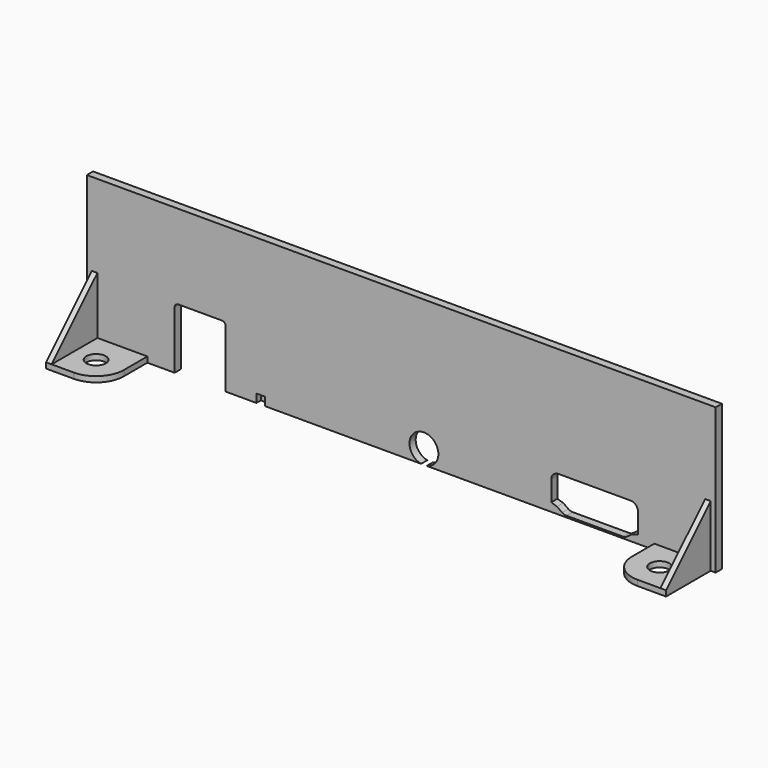
from build123d import *

# Parameters (mm, degrees)
PAD028_DEPTH    = 1.4
SKETCH048_R     = 1.75
PAD029_DEPTH    = 1
PAD030_DEPTH    = 1
PAD031_DEPTH    = 1
SKETCH181_W     = 1.5
SKETCH181_H     = 1.5
POCKET062_DEPTH = 1


with BuildPart() as part:
    # Sketch047 (on Face725 of Binder021) → Pad028 (new body)
    with BuildSketch(Plane(origin=(0, 135.8, 0), x_dir=(-1, 0, 0), z_dir=(0, 1, 0))):
        with BuildLine():
            Line((-120.499982, -0.1), (-120.499982, -26.3))
            Line((-120.499982, -26.3), (-68.48194, -26.3))
            ThreePointArc((-67.46705, -26.3), (-67.974495, -21.15), (-68.48194, -26.3))
            Line((-67.46705, -26.3), (-32.299995, -26.3))
            Line((-32.299995, -15.934266), (-32.299995, -26.3))
            ThreePointArc((-31.615729, -15.25), (-32.099578, -15.450417), (-32.299995, -15.934266))
            Line((-31.615729, -15.25), (-23.784261, -15.25))
            ThreePointArc((-23.099995, -15.934266), (-23.300412, -15.450417), (-23.784261, -15.25))
            Line((-23.099995, -15.934266), (-23.099995, -26.3))
            Line((-7.299995, -26.3), (-23.099995, -26.3))
            Line((-7.299995, -26.3), (-7.299995, -0.1))
            Line((-7.299995, -0.1), (-120.499982, -0.1))
        make_face()
        with BuildLine():
            Line((-105.199995, -19.86), (-92.199994, -19.86))
            ThreePointArc((-90.899995, -21.16), (-91.280756, -20.240762), (-92.199994, -19.86))
            Line((-90.899995, -21.16), (-90.899995, -24.776619))
            Line((-90.899995, -24.776619), (-91.938732, -25.120886))
            Line((-91.938732, -25.120886), (-92.869018, -25.773985))
            ThreePointArc((-93.61597, -26.01), (-93.224294, -25.949593), (-92.869018, -25.773985))
            Line((-93.61597, -26.01), (-103.78402, -26.01))
            ThreePointArc((-104.530977, -25.773981), (-104.175699, -25.949592), (-103.78402, -26.01))
            Line((-105.461258, -25.120886), (-104.530977, -25.773981))
            Line((-106.499995, -24.776619), (-105.461258, -25.120886))
            Line((-106.499995, -21.16), (-106.499995, -24.776619))
            ThreePointArc((-105.199995, -19.86), (-106.119234, -20.240761), (-106.499995, -21.16))
        make_face(mode=Mode.SUBTRACT)
    extrude(amount=-PAD028_DEPTH)

    # Sketch048 (on Face5 of Binder022) → Pad029 (join)
    with BuildSketch(Plane.XY.offset(-26.3)):
        with BuildLine():
            Line((18.199995, 134.4), (8.199995, 134.4))
            Line((8.199995, 134.4), (8.199995, 124.1))
            Line((8.199995, 124.1), (13.199995, 124.1))
            ThreePointArc((13.199995, 124.1), (16.735529, 125.564466), (18.199995, 129.1))
            Line((18.199995, 134.4), (18.199995, 129.1))
        make_face()
        with Locations((13.199995, 129.1)):
            Circle(SKETCH048_R, mode=Mode.SUBTRACT)
        with BuildLine():
            Line((109.449995, 134.4), (119.599982, 134.4))
            Line((119.599982, 134.4), (119.599982, 124.35))
            Line((119.599982, 124.35), (114.449995, 124.35))
            ThreePointArc((109.449995, 129.35), (110.914461, 125.814466), (114.449995, 124.35))
            Line((109.449995, 134.4), (109.449995, 129.35))
        make_face()
        with Locations((114.449995, 129.35)):
            Circle(SKETCH048_R, mode=Mode.SUBTRACT)
    extrude(amount=PAD029_DEPTH)

    # Sketch049 (on Face25 of Pad029) → Pad030 (join)
    with BuildSketch(Plane(origin=(8.199995, 0, 0), x_dir=(0, -1, 0), z_dir=(-1, 0, 0))):
        Polygon((-134.4, -25.3), (-124.1, -25.3), (-134.4, -15), align=None)
    extrude(amount=-PAD030_DEPTH)

    # Sketch050 (on Face36 of Pad030) → Pad031 (join)
    with BuildSketch(Plane.YZ.offset(119.599982)):
        Polygon((124.35, -25.3), (134.4, -25.3), (134.4, -15.25), align=None)
    extrude(amount=-PAD031_DEPTH)

    # Sketch181 (on Face5 of Clone006) → Pocket062 (cut)
    with BuildSketch(Plane.XZ.offset(-134.4)):
        with Locations((38.579995, -25.55)):
            Rectangle(SKETCH181_W, SKETCH181_H)
    extrude(amount=-POCKET062_DEPTH, mode=Mode.SUBTRACT)


solid = part.part
